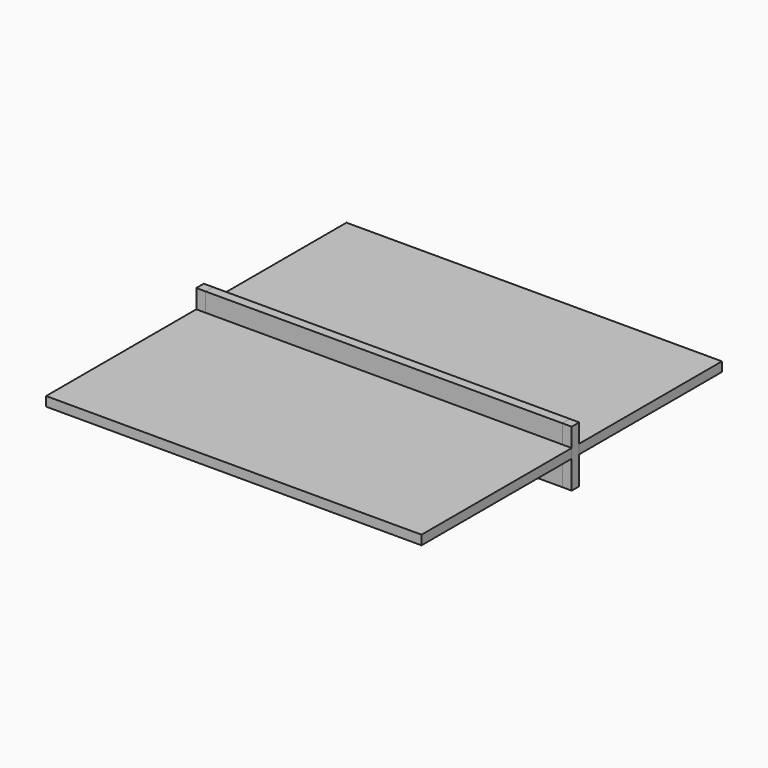
from build123d import *

# Parameters (mm, degrees)
F0_W     = 254
F0_H     = 254
F1_DEPTH = 6.35
F2_W     = 254
F2_H     = 38.1
F3_DEPTH = 6.35
F4_W     = 241.3
F4_H     = 38.1
F5_DEPTH = 6.35


with BuildPart() as f1:
    # F0 (on Top) → F1 (new body)
    with BuildSketch(Plane.XY):
        Rectangle(F0_W, F0_H)
    extrude(amount=F1_DEPTH)


with BuildPart() as f3:
    # F2 (on Front) → F3 (new body)
    with BuildSketch(Plane.XZ):
        Rectangle(F2_W, F2_H)
    extrude(amount=-F3_DEPTH)


with BuildPart() as f5:
    # F4 (on Front) → F5 (new body)
    with BuildSketch(Plane.XZ):
        Rectangle(F4_W, F4_H)
    extrude(amount=-F5_DEPTH)


solid = Compound([f1.part, f3.part, f5.part])
